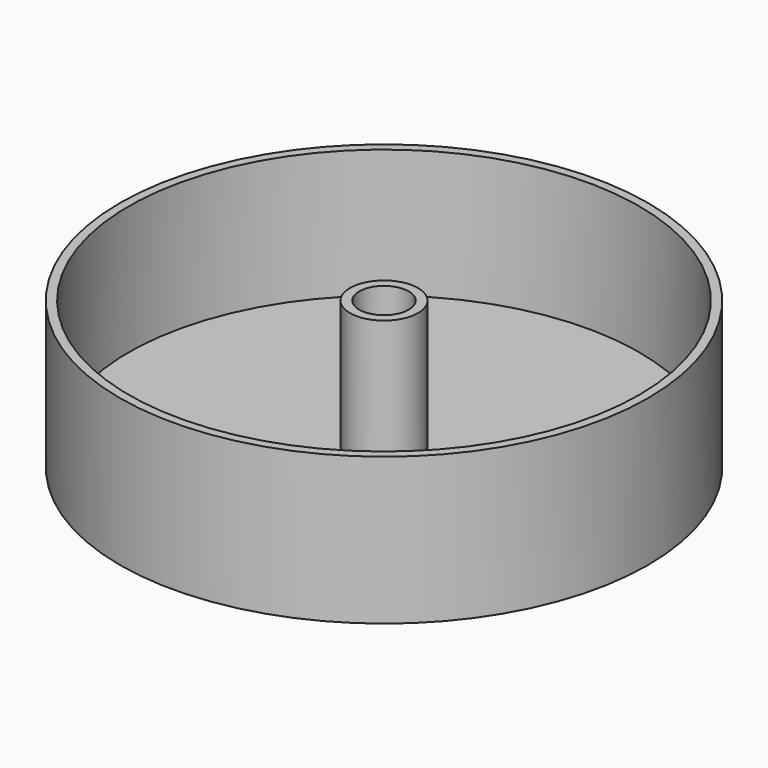
from build123d import *

# Parameters (mm, degrees)
F0_R     = 14.378565
F0_R_2   = 13.89928
F0_R_3   = 1.85
F0_R_4   = 1.35
F1_DEPTH = 1
F2_DEPTH = 8


with BuildPart() as f1:
    # F0 (on Top) → F1 (new body)
    with BuildSketch(Plane.XY):
        Circle(F0_R)
        Circle(F0_R_2, mode=Mode.SUBTRACT)
        Circle(F0_R_2)
        Circle(F0_R_3, mode=Mode.SUBTRACT)
        Circle(F0_R_4)
    extrude(amount=F1_DEPTH)

    # F0 (on Top) → F2 (join)
    with BuildSketch(Plane.XY):
        Circle(F0_R)
        Circle(F0_R_2, mode=Mode.SUBTRACT)
        Circle(F0_R_3)
        Circle(F0_R_4, mode=Mode.SUBTRACT)
    extrude(amount=F2_DEPTH)


solid = f1.part
